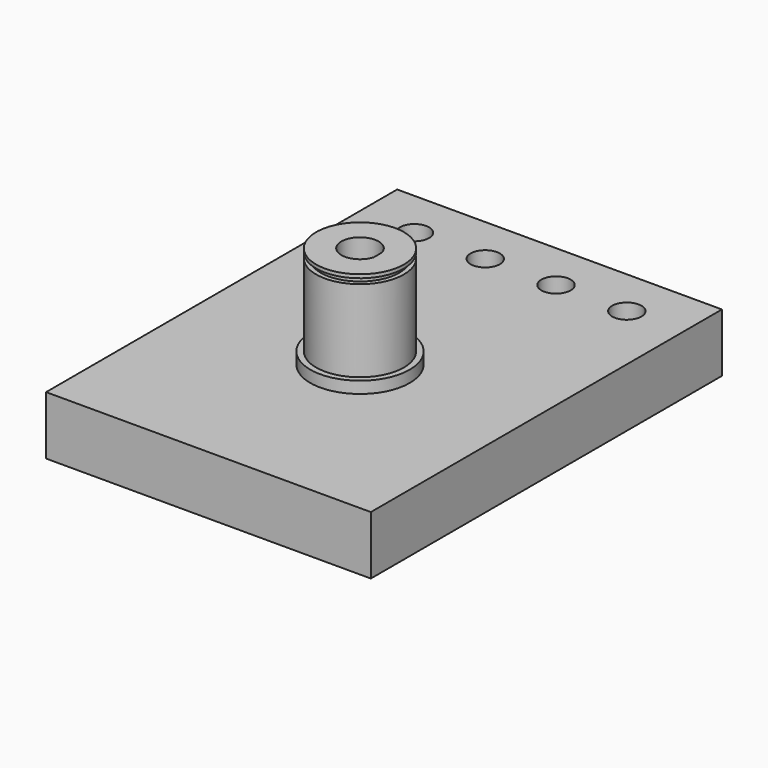
from build123d import *

# Parameters (mm, degrees)
F0_W      = 111
F0_H      = 20
F1_DEPTH  = 150
F2_R      = 14.996
F3_DEPTH  = 35
F4_R      = 14.996
F4_R_2    = 13.4495
F5_DEPTH  = 3
F6_R      = 14.996
F6_R_2    = 13.4495
F7_DEPTH  = 1.22
F8_R      = 16.996
F9_DEPTH  = 4
F10_R     = 8.540661
F11_DEPTH = 2
F12_R     = 5
F13_DEPTH = 20.001
F14_R     = 3
F15_DEPTH = 26.001
F16_R     = 5.6
F17_DEPTH = 16


with BuildPart() as f1:
    # F0 (on Front) → F1 (new body)
    with BuildSketch(Plane.XZ):
        with Locations((0.662768, -21.843081)):
            Rectangle(F0_W, F0_H)
    extrude(amount=F1_DEPTH)

    # F2 (on face) → F3 (join)
    with BuildSketch(Plane.XY.offset(-11.843081)):
        with Locations((0.662768, -85.246)):
            Circle(F2_R)
        with BuildLine():
            ThreePointArc((6.768928, -87.025451), (-5.697392, -85.246), (6.768928, -83.466549))
            Line((6.768928, -83.466549), (6.768928, -87.025451))
        make_face(mode=Mode.SUBTRACT)
    extrude(amount=F3_DEPTH)

    # F4 (on face) → F5 (cut)
    with BuildSketch(Plane.XY.offset(23.156919)):
        with Locations((0.662768, -85.246)):
            Circle(F4_R)
        with Locations((0.662768, -85.246)):
            Circle(F4_R_2, mode=Mode.SUBTRACT)
    extrude(amount=-F5_DEPTH, mode=Mode.SUBTRACT)

    # F6 (on face) → F7 (join)
    with BuildSketch(Plane.XY.offset(23.156919)):
        with Locations((0.662768, -85.246)):
            Circle(F6_R)
        with Locations((0.662768, -85.246)):
            Circle(F6_R_2, mode=Mode.SUBTRACT)
    extrude(amount=-F7_DEPTH)

    # F8 (on face) → F9 (join)
    with BuildSketch(Plane.XY.offset(-11.843081)):
        with Locations((0.662768, -85.246)):
            Circle(F8_R)
    extrude(amount=F9_DEPTH)

    # F10 (on face) → F11 (join)
    with BuildSketch(Plane.XY.offset(-7.843081)):
        with Locations((0.662768, -85.246)):
            Circle(F10_R)
    extrude(amount=F11_DEPTH)

    # F12 (on face) → F13 (cut, through all)
    with BuildSketch(Plane.XY.offset(-11.843081)):
        with Locations((36.962768, -16.625)):
            Circle(F12_R)
        with Locations((12.762768, -16.625)):
            Circle(F12_R)
        with Locations((-11.437232, -16.625)):
            Circle(F12_R)
        with Locations((-35.637232, -16.625)):
            Circle(F12_R)
    extrude(amount=-F13_DEPTH, mode=Mode.SUBTRACT)

    # F14 (on face) → F15 (cut, through all)
    with BuildSketch(Plane.XY.offset(-5.843081)):
        with Locations((0.662768, -85.246)):
            Circle(F14_R)
    extrude(amount=-F15_DEPTH, mode=Mode.SUBTRACT)

    # F16 (on face) → F17 (cut)
    with BuildSketch(Plane(origin=(0, 0, -31.843081), x_dir=(1, 0, 0), z_dir=(0, 0, -1))):
        with Locations((0.662768, 85.246)):
            Circle(F16_R)
    extrude(amount=-F17_DEPTH, mode=Mode.SUBTRACT)


solid = f1.part
